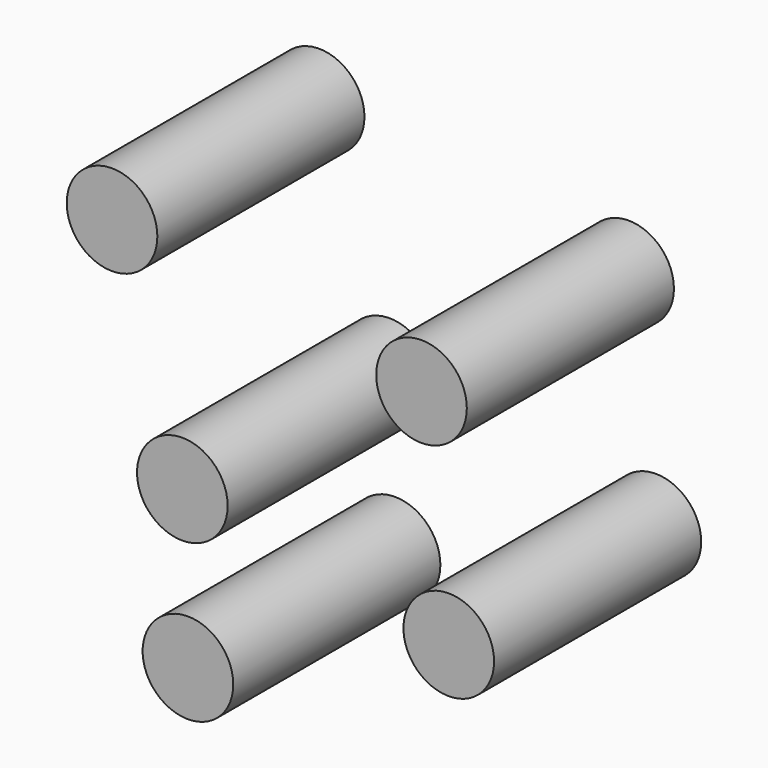
from build123d import *

# Parameters (mm, degrees)
F0_R     = 4.445
F1_DEPTH = 25.4


with BuildPart() as f1:
    # F0 (on Front) → F1 (new body)
    with BuildSketch(Plane.XZ):
        with Locations((-34.063129, 26.043036)):
            Circle(F0_R)
        with Locations((-33.51254, 10.788938)):
            Circle(F0_R)
        with Locations((-10.597984, 42.105503)):
            Circle(F0_R)
        with Locations((-40.959775, 47.070321)):
            Circle(F0_R)
        with Locations((-7.924618, 21.100491)):
            Circle(F0_R)
    extrude(amount=F1_DEPTH)


solid = f1.part
